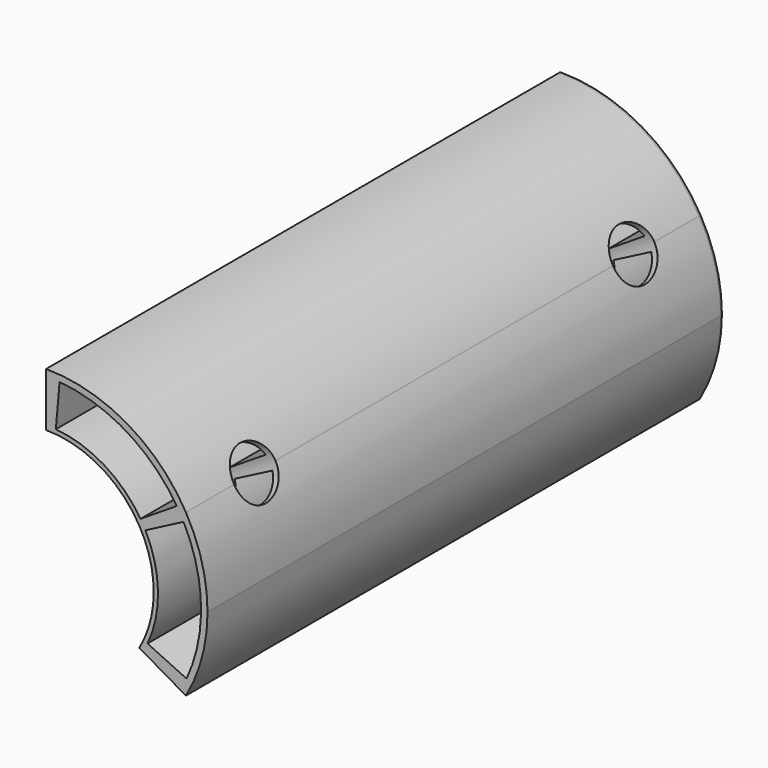
from build123d import *

# Parameters (mm, degrees)
F1_DEPTH = 75
F5_D     = 12
F7_DEPTH = 150
F8_R     = 1


with BuildPart() as f1:
    # F0 (on Front) → F1 (new body, symmetric)
    with BuildSketch(Plane.XZ):
        with BuildLine():
            Line((21.6506350946, 12.5), (32.4759526419, 18.75))
            ThreePointArc((32.4759526419, 18.75), (18.75, 32.4759526419), (0, 37.5))
            Line((0, 37.5), (0, 25))
            ThreePointArc((0, 25), (12.5, 21.6506350946), (21.6506350946, 12.5))
        make_face()
        with BuildLine():
            ThreePointArc((32.4759526419, -18.75), (36.2222184858, -9.7057141913), (37.5, 0))
            ThreePointArc((37.5, 0), (36.2222184858, 9.7057141913), (32.4759526419, 18.75))
            Line((32.4759526419, 18.75), (21.6506350946, 12.5))
            ThreePointArc((21.6506350946, 12.5), (24.1481456572, 6.4704761276), (25, 0))
            ThreePointArc((25, 0), (24.1481456572, -6.4704761276), (21.6506350946, -12.5))
            Line((21.6506350946, -12.5), (32.4759526419, -18.75))
        make_face()
    extrude(amount=F1_DEPTH, both=True)

    # F5 (through all)
    with Locations(Plane(origin=(33.5584843966, 0, 19.375), x_dir=(0, -1, 0), z_dir=(0.8660254038, 0, 0.5))):
        with Locations((55, 0), (-55, 0)):
            Hole(F5_D / 2)

    # F6 (on face) → F7 (cut)
    with BuildSketch(Plane(origin=(0, 75, 0), x_dir=(-1, 0, 0), z_dir=(0, 1, 0))):
        with BuildLine():
            ThreePointArc((-21.9281775911, 13.969789817), (-13.4881047122, 22.2277086375), (-2.2660493114, 25.9010621504))
            Line((-2.2660493114, 25.9010621504), (-3.1376067389, 35.8630091313))
            ThreePointArc((-3.1376067389, 35.8630091313), (-18.6758372938, 30.7768273442), (-30.3620920493, 19.3427859005))
            Line((-30.3620920493, 19.3427859005), (-21.9281775911, 13.969789817))
        make_face()
        with BuildLine():
            ThreePointArc((-23.564002463, -10.9880748053), (-25.9938127041, 0.5671870109), (-23.0622816626, 12.0054639441))
            Line((-23.0622816626, 12.0054639441), (-31.9323899944, 16.6229500765))
            ThreePointArc((-31.9323899944, 16.6229500765), (-35.9914329749, 0.7853358612), (-32.6270803333, -15.2142574227))
            Line((-32.6270803333, -15.2142574227), (-23.564002463, -10.9880748053))
        make_face()
    extrude(amount=-F7_DEPTH, mode=Mode.SUBTRACT)

    # F8
    f8_edges = [f1.edges().sort_by_distance(p)[0] for p in [
        (32.475953, 75, 18.75),
    ]]
    fillet(f8_edges, radius=F8_R)


solid = f1.part
